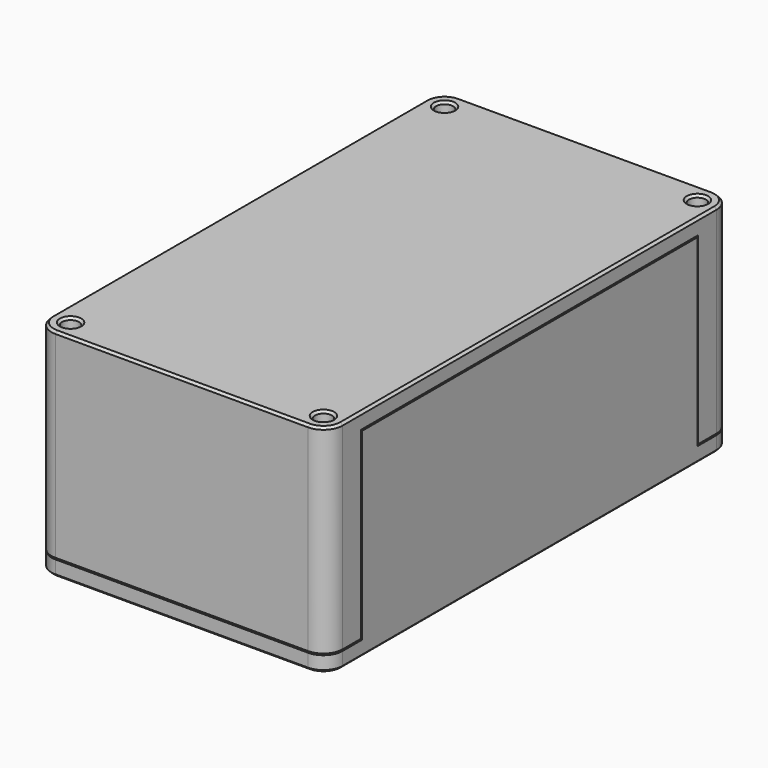
from build123d import *

# Parameters (mm, degrees)
SKETCH_R        = 1.1
PAD_DEPTH       = 26
POCKET_DEPTH    = 24
SKETCH005_W     = 1.15
SKETCH005_H     = 55
POCKET002_DEPTH = 1
SKETCH007_R     = 2.5
SKETCH007_R_2   = 1
PAD004_DEPTH    = 2
FILLET_R        = 0.6
CHAMFER_SIZE    = 0.3
SKETCH003_R     = 1.1
PAD002_DEPTH    = 26
POCKET001_DEPTH = 24
SKETCH006_W     = 1
SKETCH006_H     = 54.7
PAD003_DEPTH    = 1
CHAMFER001_SIZE = 0.3


with BuildPart() as bottom:
    # Sketch → Pad (new body)
    with BuildSketch(Plane.XY):
        with BuildLine():
            Line((-19, 30.5), (-19, -30.5))
            ThreePointArc((-19, -30.5), (-18.267767, -32.267767), (-16.5, -33))
            Line((-16.5, -33), (16.5, -33))
            ThreePointArc((16.5, -33), (18.267767, -32.267767), (19, -30.5))
            Line((19, 30.5), (19, -30.5))
            ThreePointArc((19, 30.5), (18.267767, 32.267767), (16.5, 33))
            Line((-16.5, 33), (16.5, 33))
            ThreePointArc((-16.5, 33), (-18.267767, 32.267767), (-19, 30.5))
        make_face()
        with Locations((-16.5, 30.5)):
            Circle(SKETCH_R, mode=Mode.SUBTRACT)
        with Locations((16.5, -30.5)):
            Circle(SKETCH_R, mode=Mode.SUBTRACT)
        with Locations((-16.5, -30.5)):
            Circle(SKETCH_R, mode=Mode.SUBTRACT)
        with Locations((16.5, 30.5)):
            Circle(SKETCH_R, mode=Mode.SUBTRACT)
    extrude(amount=PAD_DEPTH)

    # Sketch001 → Pocket (cut)
    with BuildSketch(Plane.XY):
        with BuildLine():
            ThreePointArc((-13.5, -30), (-14.232233, -28.232233), (-16, -27.5))
            Line((-19, -27.5), (-16, -27.5))
            Line((-19, 27.5), (-19, -27.5))
            Line((-16, 27.5), (-19, 27.5))
            ThreePointArc((-16, 27.5), (-14.232233, 28.232233), (-13.5, 30))
            Line((-13.5, 30), (-13.5, 31))
            Line((-13.5, 31), (13.5, 31))
            Line((13.5, 30), (13.5, 31))
            ThreePointArc((13.5, 30), (14.232233, 28.232233), (16, 27.5))
            Line((16, 27.5), (19, 27.5))
            Line((19, -27.5), (19, 27.5))
            Line((19, -27.5), (16, -27.5))
            ThreePointArc((16, -27.5), (14.232233, -28.232233), (13.5, -30))
            Line((13.5, -30), (13.5, -31))
            Line((-13.5, -31), (13.5, -31))
            Line((-13.5, -31), (-13.5, -30))
        make_face()
    extrude(amount=POCKET_DEPTH, mode=Mode.SUBTRACT)

    # Sketch005 (on Face8 of Pocket) → Pocket002 (cut)
    with BuildSketch(Plane(origin=(0, 0, 24), x_dir=(1, 0, 0), z_dir=(0, 0, -1))):
        with Locations((-17.425, 0)):
            Rectangle(SKETCH005_W, SKETCH005_H)
        with Locations((17.425, 0)):
            Rectangle(SKETCH005_W, SKETCH005_H)
    extrude(amount=-POCKET002_DEPTH, mode=Mode.SUBTRACT)

    # Sketch007 (on Face25 of Pocket002) → Pad004 (join)
    with BuildSketch(Plane(origin=(0, 0, 24), x_dir=(1, 0, 0), z_dir=(0, 0, -1))):
        with Locations((-13, 24)):
            Circle(SKETCH007_R)
        with Locations((-13, 24)):
            Circle(SKETCH007_R_2, mode=Mode.SUBTRACT)
        with Locations((13, 24)):
            Circle(SKETCH007_R)
        with Locations((13, 24)):
            Circle(SKETCH007_R_2, mode=Mode.SUBTRACT)
        with Locations((-13, -24)):
            Circle(SKETCH007_R)
        with Locations((-13, -24)):
            Circle(SKETCH007_R_2, mode=Mode.SUBTRACT)
        with Locations((13, -24)):
            Circle(SKETCH007_R)
        with Locations((13, -24)):
            Circle(SKETCH007_R_2, mode=Mode.SUBTRACT)
    extrude(amount=PAD004_DEPTH)

    # Fillet
    fillet_edges = [bottom.edges().sort_by_distance(p)[0] for p in [
        (15.5, -24, 23),
        (10.5, -24, 24),
        (10.5, -24, 22),
        (15.5, 24, 23),
        (10.5, 24, 24),
        (10.5, 24, 22),
        (-10.5, 24, 23),
        (-15.5, 24, 24),
        (-15.5, 24, 22),
        (-10.5, -24, 23),
        (-15.5, -24, 24),
        (-15.5, -24, 22),
    ]]
    fillet(fillet_edges, radius=FILLET_R)

    # Chamfer
    chamfer_edges = [bottom.edges().sort_by_distance(p)[0] for p in [
        (-18.267767, 32.267767, 26),
        (-19, 0, 26),
        (-18.267767, -32.267767, 26),
        (0, -33, 26),
        (18.267767, -32.267767, 26),
        (19, 0, 26),
        (18.267767, 32.267767, 26),
        (0, 33, 26),
        (15.4, 30.5, 26),
        (-17.6, -30.5, 26),
        (15.4, -30.5, 26),
        (-17.6, 30.5, 26),
    ]]
    chamfer(chamfer_edges, length=CHAMFER_SIZE)


with BuildPart() as top:
    # Sketch003 → Pad002 (new body)
    with BuildSketch(Plane.XY):
        with BuildLine():
            Line((-19, 30.5), (-19, -30.5))
            ThreePointArc((-19, -30.5), (-18.267767, -32.267767), (-16.5, -33))
            Line((-16.5, -33), (16.5, -33))
            ThreePointArc((16.5, -33), (18.267767, -32.267767), (19, -30.5))
            Line((19, -30.5), (19, 30.5))
            ThreePointArc((19, 30.5), (18.267767, 32.267767), (16.5, 33))
            Line((-16.5, 33), (16.5, 33))
            ThreePointArc((-16.5, 33), (-18.267767, 32.267767), (-19, 30.5))
        make_face()
        with Locations((-16.5, 30.5)):
            Circle(SKETCH003_R, mode=Mode.SUBTRACT)
        with Locations((16.5, 30.5)):
            Circle(SKETCH003_R, mode=Mode.SUBTRACT)
        with Locations((16.5, -30.5)):
            Circle(SKETCH003_R, mode=Mode.SUBTRACT)
        with Locations((-16.5, -30.5)):
            Circle(SKETCH003_R, mode=Mode.SUBTRACT)
    extrude(amount=PAD002_DEPTH)

    # Sketch004 (on Face14 of Pad002) → Pocket001 (cut)
    with BuildSketch(Plane.XY.offset(26)):
        Polygon((-19, 33), (19, 33), (19, 27.35), (17, 27.35), (17, -27.35), (19, -27.35), (19, -33), (-19, -33), (-19, -27.35), (-17, -27.35), (-17, 27.35), (-19, 27.35), align=None)
    extrude(amount=-POCKET001_DEPTH, mode=Mode.SUBTRACT)

    # Sketch006 (on Face16 of Pocket001) → Pad003 (join)
    with BuildSketch(Plane.XY.offset(26)):
        with Locations((-17.5, 0)):
            Rectangle(SKETCH006_W, SKETCH006_H)
        with Locations((17.5, 0)):
            Rectangle(SKETCH006_W, SKETCH006_H)
    extrude(amount=PAD003_DEPTH)

    # Chamfer001
    chamfer001_edges = [top.edges().sort_by_distance(p)[0] for p in [
        (-18.267767, 32.267767, 0),
        (-19, 0, 0),
        (-18.267767, -32.267767, 0),
        (0, -33, 0),
        (18.267767, -32.267767, 0),
        (19, 0, 0),
        (18.267767, 32.267767, 0),
        (0, 33, 0),
        (-17.6, -30.5, 0),
        (15.4, -30.5, 0),
        (15.4, 30.5, 0),
        (-17.6, 30.5, 0),
    ]]
    chamfer(chamfer001_edges, length=CHAMFER001_SIZE)


with BuildPart() as top_1:
    # Body001 placement: moved
    add(top.part.moved(Location((0, 0, -2.2))))


solid = Compound([bottom.part, top_1.part])
